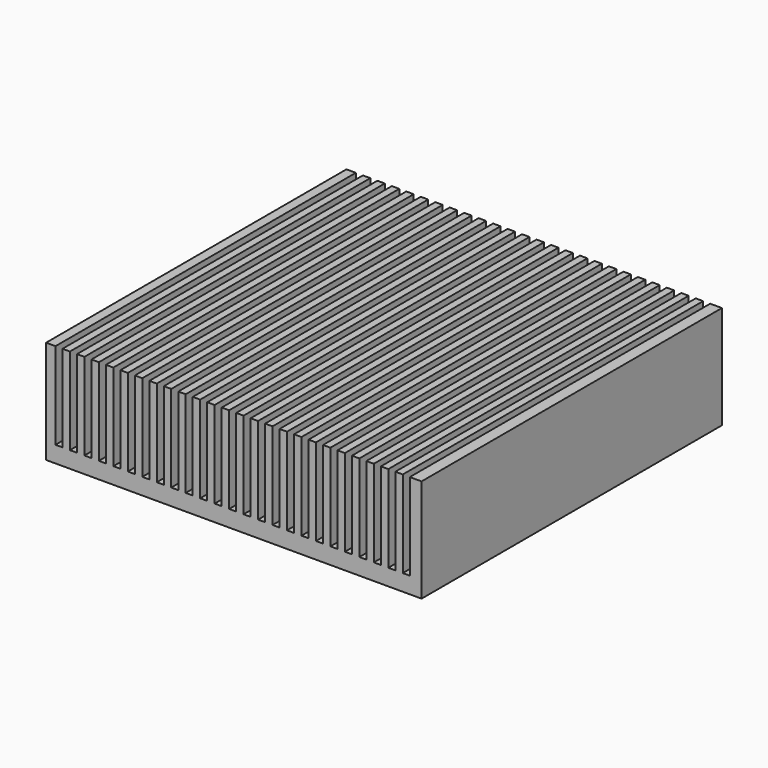
from build123d import *

# Parameters (mm, degrees)
SKETCH033_W            = 40
SKETCH033_H            = 40
PAD008_DEPTH           = 11
SKETCH034_W            = 0.75
SKETCH034_H            = 13.12
POCKET008_DEPTH        = 20.001
POCKET008_DEPTH_BACK   = 20.001
LINEARPATTERN001_COUNT = 25
LINEARPATTERN001_PITCH = 1.541667


with BuildPart() as part:
    # Sketch033 → Pad008 (new body)
    with BuildSketch(Plane.XY):
        Rectangle(SKETCH033_W, SKETCH033_H)
    extrude(amount=PAD008_DEPTH)

    # Sketch034 → Pocket008 (cut, two sides)
    with BuildSketch(Plane.XZ) as pocket008_sk:
        with Locations((-18.625, 8.31)):
            Rectangle(SKETCH034_W, SKETCH034_H)
    pocket008 = extrude(amount=-POCKET008_DEPTH, mode=Mode.SUBTRACT) + extrude(pocket008_sk.sketch, amount=POCKET008_DEPTH_BACK, mode=Mode.SUBTRACT)

    # LinearPattern001: Pocket008 ×25
    with Locations(*[(i * LINEARPATTERN001_PITCH, 0, 0) for i in range(1, LINEARPATTERN001_COUNT)]):
        add(pocket008, mode=Mode.SUBTRACT)


with BuildPart() as part_1:
    # Body009 placement: moved
    add(part.part.moved(Location((0, 0, 4))))


solid = part_1.part
